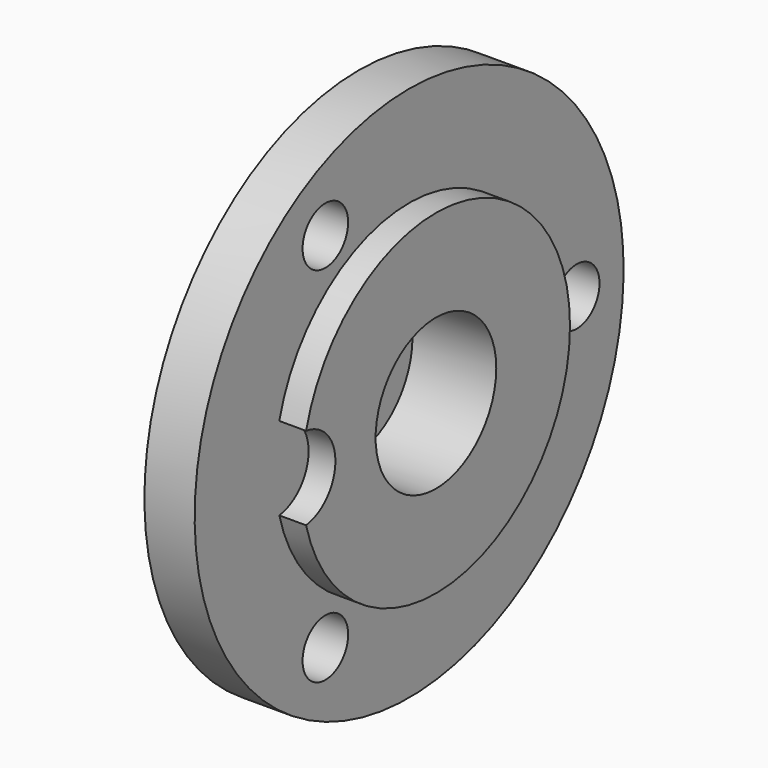
from build123d import *

# Parameters (mm, degrees)
F2_SIZE  = 1
F3_R     = 0.85
F4_DEPTH = 3.001
F5_R     = 1.25
F6_DEPTH = 0.8
F7_R     = 2.25
F8_DEPTH = 2.5


with BuildPart() as f1:
    # F0 (on Front) → F1 (revolve)
    with BuildSketch(Plane.XZ):
        Polygon((0, 4), (0, 0), (3.8, 0), (3.8, 5), (3, 5), (3, 8), (1.5, 8), (1.5, 4), align=None)
    revolve(axis=Axis((1.9, 0, 0), (1, 0, 0)))

    # F2
    f2_edges = [f1.edges().sort_by_distance(p)[0] for p in [
        (0, 0, -4),
    ]]
    chamfer(f2_edges, length=F2_SIZE)

    # F3 (on face) → F4 (cut, through all)
    with BuildSketch(Plane.YZ.offset(3)):
        with Locations((6.25, 0)):
            Circle(F3_R)
        with Locations((-3.125, 5.412659)):
            Circle(F3_R)
        with Locations((-3.125, -5.412659)):
            Circle(F3_R)
    extrude(amount=-F4_DEPTH, mode=Mode.SUBTRACT)

    # F5 (on face) → F6 (cut, through all)
    with BuildSketch(Plane.YZ.offset(3.8)):
        with Locations((-5, 0)):
            Circle(F5_R)
    extrude(amount=-F6_DEPTH, mode=Mode.SUBTRACT)

    # F7 (on face) → F8 (cut)
    with BuildSketch(Plane.YZ.offset(3.8)):
        Circle(F7_R)
    extrude(amount=-F8_DEPTH, mode=Mode.SUBTRACT)


solid = f1.part
